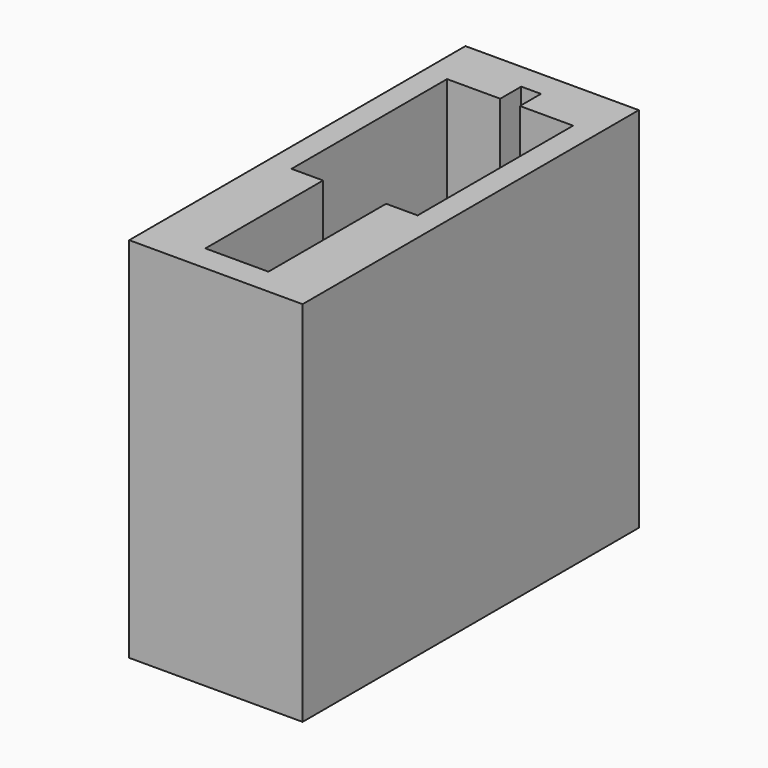
from build123d import *

# Parameters (mm, degrees)
F0_W     = 33
F0_H     = 80
F1_DEPTH = 70
F3_DEPTH = 60
F4_R     = 6.5
F4_R_2   = 4.5
F4_R_3   = 5.125
F5_DEPTH = 2.5


with BuildPart() as f1:
    # F0 (on Top) → F1 (new body)
    with BuildSketch(Plane.XY):
        with Locations((-71, -15)):
            Rectangle(F0_W, F0_H)
    extrude(amount=F1_DEPTH)

    # F2 (on face) → F3 (cut)
    with BuildSketch(Plane.XY.offset(70)):
        Polygon((-72.875, 20), (-72.875, 15), (-83, 15), (-83, -22), (-77, -22), (-77, -50), (-71, -50), (-65, -50), (-65, -22), (-59, -22), (-59, 15), (-69.125, 15), (-69.125, 20), (-71, 20), align=None)
    extrude(amount=-F3_DEPTH, mode=Mode.SUBTRACT)

    # F4 (on face) → F5 (cut)
    with BuildSketch(Plane.XY.offset(10)):
        with Locations((-71, 4.75)):
            Circle(F4_R)
        with Locations((-71, 4.75)):
            Circle(F4_R_2, mode=Mode.SUBTRACT)
        with Locations((-71, -11.025)):
            Circle(F4_R_3)
    extrude(amount=-F5_DEPTH, mode=Mode.SUBTRACT)


solid = f1.part
